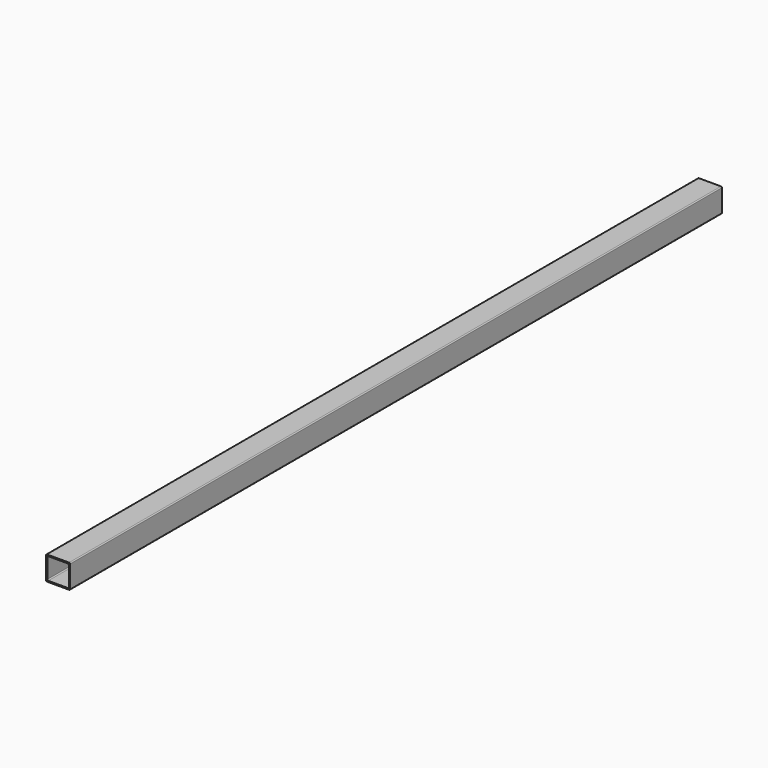
from build123d import *

# Parameters (mm, degrees)
F1_DEPTH = 850


with BuildPart() as f1:
    # F0 (on Front) → F1 (new body, symmetric)
    with BuildSketch(Plane.XZ):
        with BuildLine():
            ThreePointArc((25, 23), (24.414214, 24.414214), (23, 25))
            Line((23, 25), (-23, 25))
            ThreePointArc((-23, 25), (-24.414214, 24.414214), (-25, 23))
            Line((-25, 23), (-25, -23))
            ThreePointArc((-25, -23), (-24.414214, -24.414214), (-23, -25))
            Line((-23, -25), (23, -25))
            ThreePointArc((23, -25), (24.414214, -24.414214), (25, -23))
            Line((25, -23), (25, 23))
        make_face()
        with BuildLine():
            Line((-20.5, 22.5), (20.5, 22.5))
            ThreePointArc((20.5, 22.5), (21.914214, 21.914214), (22.5, 20.5))
            Line((22.5, 20.5), (22.5, -20.5))
            ThreePointArc((22.5, -20.5), (21.914214, -21.914214), (20.5, -22.5))
            Line((20.5, -22.5), (-20.5, -22.5))
            ThreePointArc((-20.5, -22.5), (-21.914214, -21.914214), (-22.5, -20.5))
            Line((-22.5, -20.5), (-22.5, 20.5))
            ThreePointArc((-22.5, 20.5), (-21.914214, 21.914214), (-20.5, 22.5))
        make_face(mode=Mode.SUBTRACT)
    extrude(amount=F1_DEPTH, both=True)


solid = f1.part
